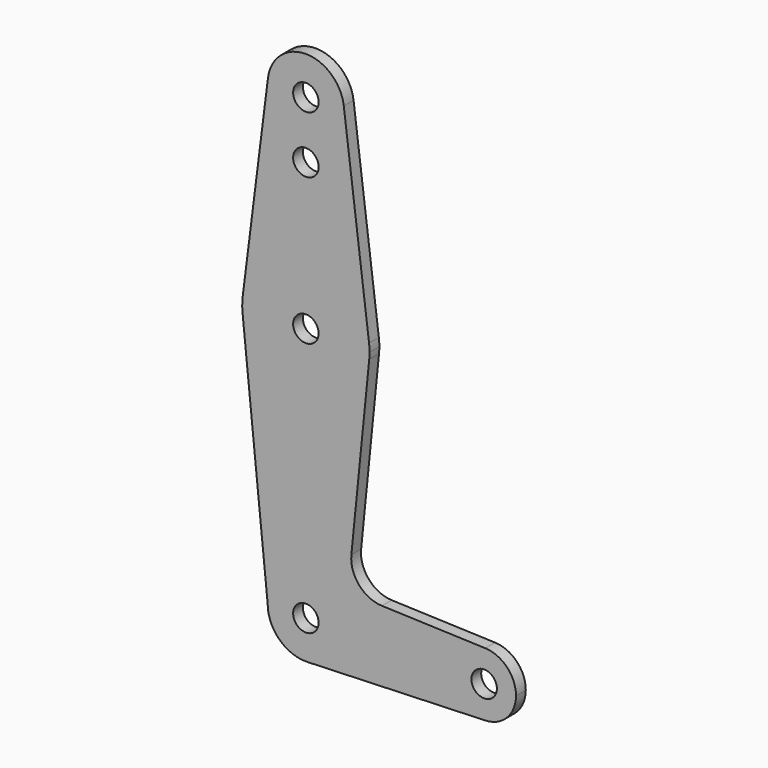
from build123d import *

# Parameters (mm, degrees)
F0_R     = 3.175
F1_DEPTH = 3.048


with BuildPart() as f1:
    # F0 (on Front) → F1 (new body)
    with BuildSketch(Plane.XZ):
        with BuildLine():
            Line((-9.450293, 115.490625), (-15.750488, 65.484375))
            ThreePointArc((-15.750488, 65.484375), (0, 79.375), (15.750488, 65.484375))
            Line((15.750488, 65.484375), (9.450293, 115.490625))
            ThreePointArc((9.450293, 115.490625), (9.506305, 114.896483), (9.525, 114.3))
            ThreePointArc((9.525, 114.3), (-0.596483, 104.793695), (-9.450293, 115.490625))
        make_face()
        with Locations((0, 100.0252)):
            Circle(F0_R, mode=Mode.SUBTRACT)
        with BuildLine():
            ThreePointArc((9.450293, 115.490625), (0, 123.825), (-9.450293, 115.490625))
            ThreePointArc((-9.450293, 115.490625), (-0.596483, 104.793695), (9.525, 114.3))
            ThreePointArc((9.525, 114.3), (9.506305, 114.896483), (9.450293, 115.490625))
        make_face()
        with Locations((0, 114.3)):
            Circle(F0_R, mode=Mode.SUBTRACT)
        with BuildLine():
            ThreePointArc((-15.750488, 65.484375), (-15.873819, 63.693615), (-15.794203, 61.90038))
            ThreePointArc((-15.794203, 61.90038), (0.006091, 47.625001), (15.795426, 61.9125))
            ThreePointArc((15.795426, 61.9125), (15.855094, 62.705253), (15.875, 63.5))
            ThreePointArc((15.875, 63.5), (15.843841, 64.494139), (15.750488, 65.484375))
            ThreePointArc((15.750488, 65.484375), (0, 79.375), (-15.750488, 65.484375))
        make_face()
        with Locations((0, 63.5)):
            Circle(F0_R, mode=Mode.SUBTRACT)
        with BuildLine():
            ThreePointArc((-9.525, 0), (0, 9.525), (9.525, 0))
            ThreePointArc((9.525, 0), (6.854408, -6.613827), (0.340179, -9.518923))
            Line((0.340179, -9.518923), (44.733482, -7.932436))
            ThreePointArc((44.733482, -7.932436), (36.5125, 0), (44.733482, 7.932436))
            Line((44.733482, 7.932436), (18.967053, 8.855885))
            ThreePointArc((18.967053, 8.855885), (13.261197, 11.574287), (11.34145, 17.596004))
            Line((11.34145, 17.596004), (15.795426, 61.9125))
            ThreePointArc((15.795426, 61.9125), (0.006091, 47.625001), (-15.794203, 61.90038))
            Line((-15.794203, 61.90038), (-9.525, 0))
        make_face()
        with BuildLine():
            ThreePointArc((0.340179, -9.518923), (6.854408, -6.613827), (9.525, 0))
            ThreePointArc((9.525, 0), (0, 9.525), (-9.525, 0))
            ThreePointArc((-9.525, 0), (-6.613827, -6.854408), (0.340179, -9.518923))
        make_face()
        Circle(F0_R, mode=Mode.SUBTRACT)
        with BuildLine():
            ThreePointArc((44.733482, 7.932436), (36.5125, 0), (44.733482, -7.932436))
            ThreePointArc((44.733482, -7.932436), (50.162007, -5.511523), (52.3875, 0))
            ThreePointArc((52.3875, 0), (50.162007, 5.511523), (44.733482, 7.932436))
        make_face()
        with Locations((44.45, 0)):
            Circle(F0_R, mode=Mode.SUBTRACT)
    extrude(amount=F1_DEPTH)


solid = f1.part
